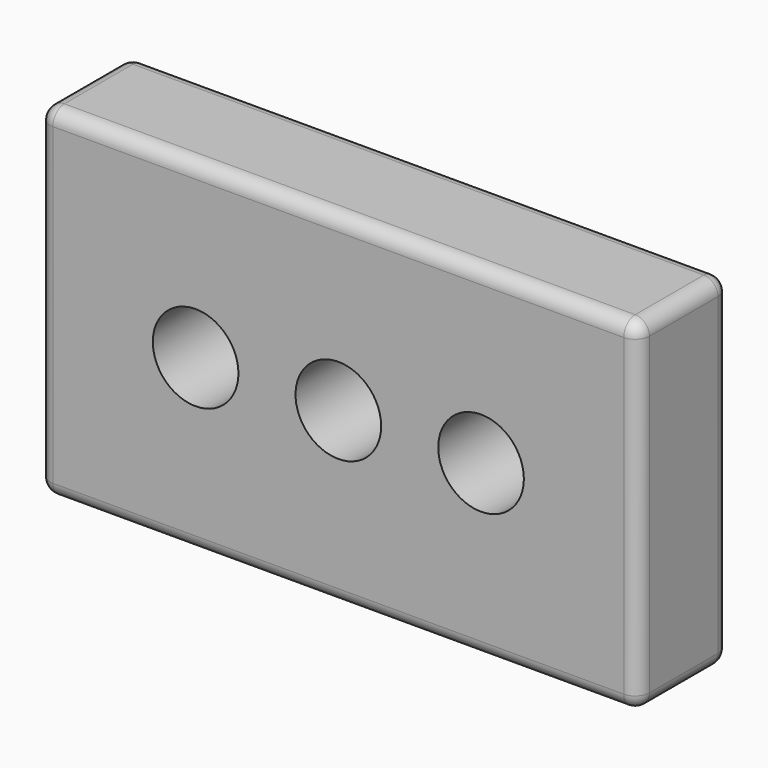
from build123d import *

# Parameters (mm, degrees)
F0_W     = 105
F0_H     = 60
F0_R     = 7.5
F1_DEPTH = 20
F2_R     = 2.5


with BuildPart() as f1:
    # F0 (on Front) → F1 (new body)
    with BuildSketch(Plane.XZ):
        Rectangle(F0_W, F0_H)
        with Locations((-25, 0)):
            Circle(F0_R, mode=Mode.SUBTRACT)
        Circle(F0_R, mode=Mode.SUBTRACT)
        with Locations((25, 0)):
            Circle(F0_R, mode=Mode.SUBTRACT)
    extrude(amount=F1_DEPTH)

    # F2
    f2_edges = [f1.edges().sort_by_distance(p)[0] for p in [
        (0, -20, 30),
        (-52.5, -10, 30),
        (0, 0, 30),
        (52.5, -10, 30),
        (52.5, -20, 0),
        (52.5, 0, 0),
        (52.5, -10, -30),
        (0, -20, -30),
        (-52.5, 0, 0),
        (-52.5, -10, -30),
        (0, 0, -30),
        (-52.5, -20, 0),
    ]]
    fillet(f2_edges, radius=F2_R)


solid = f1.part
